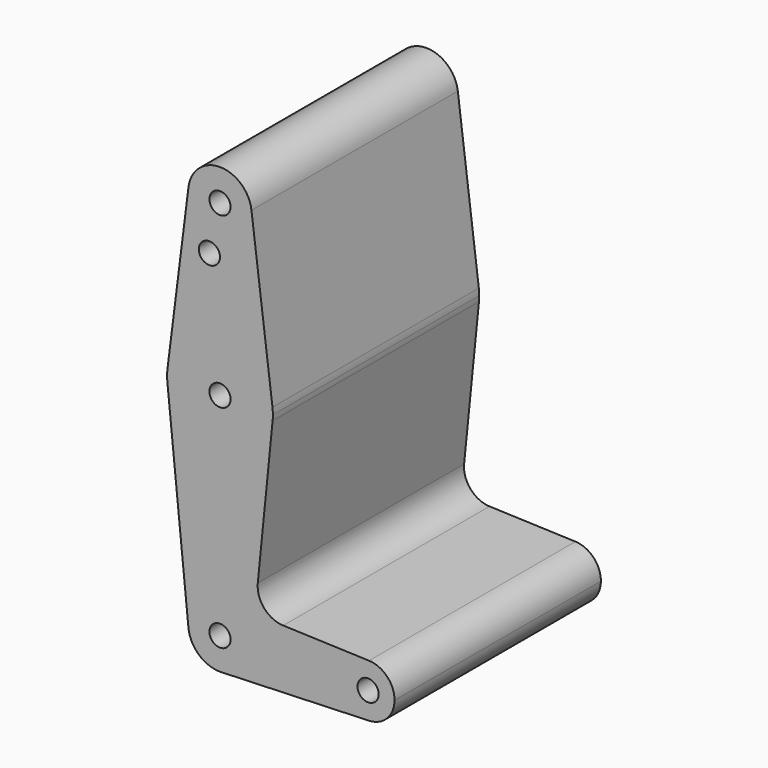
from build123d import *

# Parameters (mm, degrees)
F0_R     = 0.125
F1_DEPTH = 3.048


with BuildPart() as f1:
    # F0 (on Front) → F1 (new body)
    with BuildSketch(Plane.XZ):
        with BuildLine():
            ThreePointArc((0.013393, -0.374761), (0.269859, -0.260387), (0.375, 0))
            ThreePointArc((0.375, 0), (-0.018774, 0.37453), (-0.37312, -0.0375))
            ThreePointArc((-0.37312, -0.0375), (-0.246551, -0.282556), (0.013393, -0.374761))
        make_face()
        Circle(F0_R, mode=Mode.SUBTRACT)
        with BuildLine():
            ThreePointArc((-0.37312, -0.0375), (-0.018774, 0.37453), (0.375, 0))
            ThreePointArc((0.375, 0), (0.269859, -0.260387), (0.013393, -0.374761))
            Line((0.013393, -0.374761), (1.761161, -0.312301))
            ThreePointArc((1.761161, -0.312301), (1.4375, 0), (1.761161, 0.312301))
            Line((1.761161, 0.312301), (0.746756, 0.348553))
            ThreePointArc((0.746756, 0.348553), (0.522094, 0.455565), (0.446503, 0.692653))
            Line((0.446503, 0.692653), (0.621867, 2.4375))
            ThreePointArc((0.621867, 2.4375), (0, 1.875), (-0.621867, 2.4375))
            Line((-0.621867, 2.4375), (-0.37312, -0.0375))
        make_face()
        with BuildLine():
            ThreePointArc((-0.620098, 2.578125), (-0.624951, 2.507862), (-0.621867, 2.4375))
            ThreePointArc((-0.621867, 2.4375), (0, 1.875), (0.621867, 2.4375))
            ThreePointArc((0.621867, 2.4375), (0.624216, 2.468711), (0.625, 2.5))
            ThreePointArc((0.625, 2.5), (0.623773, 2.539139), (0.620098, 2.578125))
            ThreePointArc((0.620098, 2.578125), (0, 3.125), (-0.620098, 2.578125))
        make_face()
        with Locations((0, 2.5)):
            Circle(F0_R, mode=Mode.SUBTRACT)
        with BuildLine():
            ThreePointArc((1.761161, 0.312301), (1.4375, 0), (1.761161, -0.312301))
            ThreePointArc((1.761161, -0.312301), (1.974882, -0.216989), (2.0625, 0))
            ThreePointArc((2.0625, 0), (1.974882, 0.216989), (1.761161, 0.312301))
        make_face()
        with Locations((1.75, 0)):
            Circle(F0_R, mode=Mode.SUBTRACT)
        with BuildLine():
            Line((-0.372059, 4.546875), (-0.620098, 2.578125))
            ThreePointArc((-0.620098, 2.578125), (0, 3.125), (0.620098, 2.578125))
            Line((0.620098, 2.578125), (0.372059, 4.546875))
            ThreePointArc((0.372059, 4.546875), (0.374264, 4.523484), (0.375, 4.5))
            ThreePointArc((0.375, 4.5), (-0.023484, 4.125736), (-0.372059, 4.546875))
        make_face()
        with Locations((-0.125, 3.938)):
            Circle(F0_R, mode=Mode.SUBTRACT)
        with BuildLine():
            ThreePointArc((0.372059, 4.546875), (0, 4.875), (-0.372059, 4.546875))
            ThreePointArc((-0.372059, 4.546875), (-0.023484, 4.125736), (0.375, 4.5))
            ThreePointArc((0.375, 4.5), (0.374264, 4.523484), (0.372059, 4.546875))
        make_face()
        with Locations((0, 4.5)):
            Circle(F0_R, mode=Mode.SUBTRACT)
    extrude(amount=F1_DEPTH)


solid = f1.part
